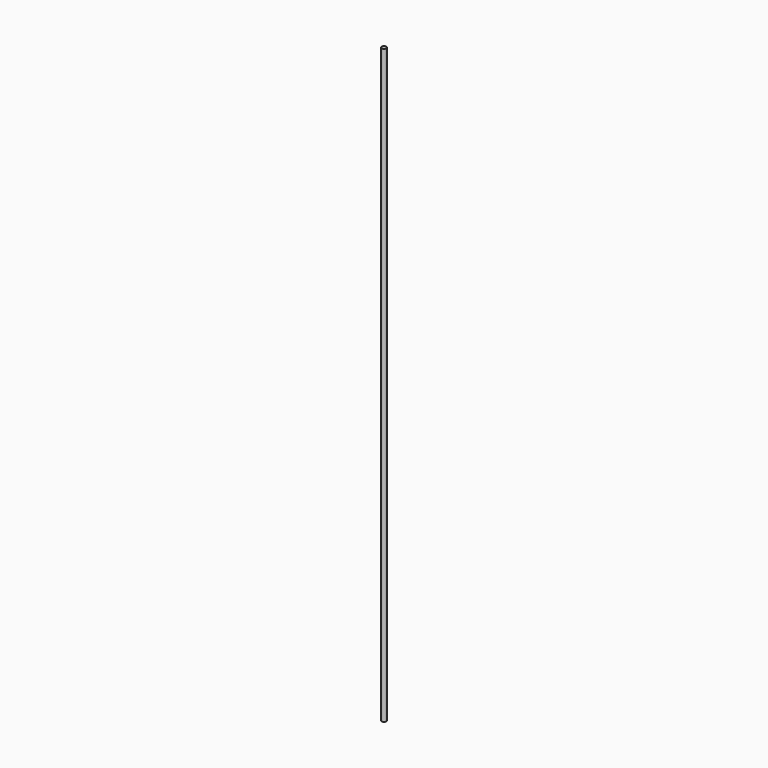
from build123d import *

# Parameters (mm, degrees)
SKETCH_R  = 2
PAD_DEPTH = 500


with BuildPart() as part:
    # Sketch → Pad (new body)
    with BuildSketch(Plane.XY):
        Circle(SKETCH_R)
    extrude(amount=PAD_DEPTH)


solid = part.part
